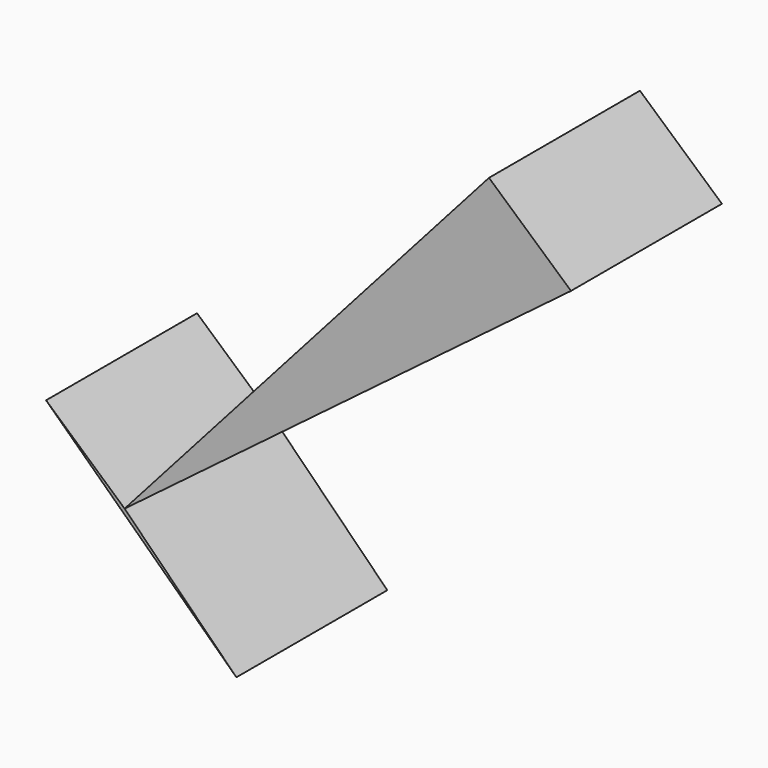
from build123d import *

# Parameters (mm, degrees)
F1_DEPTH = 25.4


with BuildPart() as f1:
    # F0 (on Front) → F1 (new body)
    with BuildSketch(Plane.XZ):
        Polygon((11.039436, 0), (0, 9.817287), (0, 0), align=None)
        Polygon((-34.011506, -60.451657), (-49.060545, -45.350777), (-59.633639, -35.948204), align=None)
        Polygon((0, 0), (0, 9.817287), (-49.060545, -45.350777), (11.039436, 0), align=None)
        Polygon((0, 0), (0, 9.817287), (-49.060545, -45.350777), (11.039436, 0), align=None)
    extrude(amount=F1_DEPTH)


solid = f1.part
